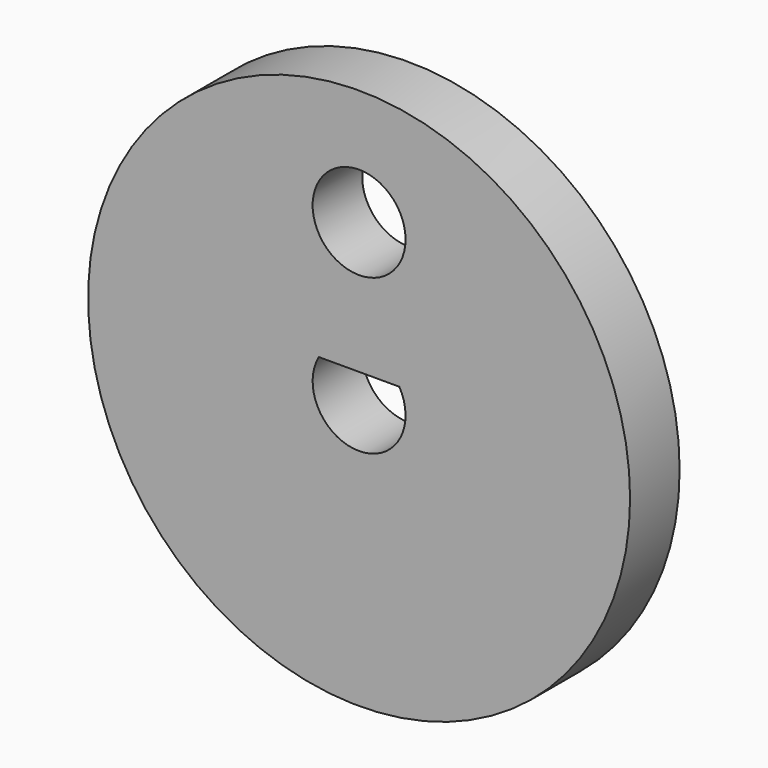
from build123d import *

# Parameters (mm, degrees)
F0_R     = 22.225
F0_R_2   = 3.81
F1_DEPTH = 5.08


with BuildPart() as f1:
    # F0 (on Front) → F1 (new body)
    with BuildSketch(Plane.XZ):
        Circle(F0_R)
        with BuildLine():
            ThreePointArc((3.299557, 1.905), (0, -3.81), (-3.299557, 1.905))
            Line((-3.299557, 1.905), (3.299557, 1.905))
        make_face(mode=Mode.SUBTRACT)
        with Locations((0, 12.7)):
            Circle(F0_R_2, mode=Mode.SUBTRACT)
    extrude(amount=F1_DEPTH)


solid = f1.part
